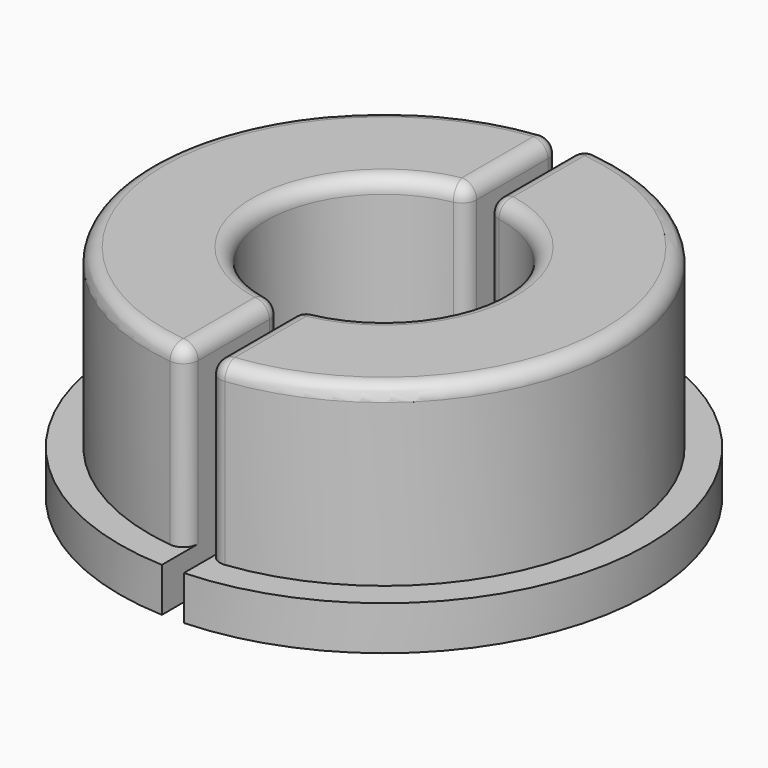
from build123d import *

# Parameters (mm, degrees)
F0_R     = 16
F0_R_2   = 8
F1_DEPTH = 15
F0_R_3   = 18
F2_DEPTH = 3
F3_W     = 1.5
F3_H     = 40
F4_DEPTH = 15.001
F5_R     = 1


with BuildPart() as f1:
    # F0 (on Top) → F1 (new body)
    with BuildSketch(Plane.XY):
        Circle(F0_R)
        Circle(F0_R_2, mode=Mode.SUBTRACT)
    extrude(amount=F1_DEPTH)

    # F0 (on Top) → F2 (join)
    with BuildSketch(Plane.XY):
        Circle(F0_R_3)
        Circle(F0_R, mode=Mode.SUBTRACT)
    extrude(amount=F2_DEPTH)

    # F3 (on Top) → F4 (cut, through all)
    with BuildSketch(Plane.XY):
        Rectangle(F3_W, F3_H)
    extrude(amount=F4_DEPTH, mode=Mode.SUBTRACT)

    # F5
    f5_edges = [f1.edges().sort_by_distance(p)[0] for p in [
        (-8, 0, 0),
        (8, 0, 0),
        (-0.75, 11.973589, 15),
        (-8, 0, 15),
        (-0.75, -11.973589, 15),
        (-16, 0, 15),
        (8, 0, 15),
        (16, 0, 15),
        (0.75, -11.973589, 15),
        (0.75, 11.973589, 15),
        (-0.75, -15.982412, 9),
        (-0.75, 15.982412, 9),
        (0.75, 15.982412, 9),
        (0.75, -15.982412, 9),
        (-0.75, -7.964766, 7.5),
        (-0.75, 7.964766, 7.5),
        (0.75, 7.964766, 7.5),
        (0.75, -7.964766, 7.5),
    ]]
    fillet(f5_edges, radius=F5_R)


solid = f1.part
